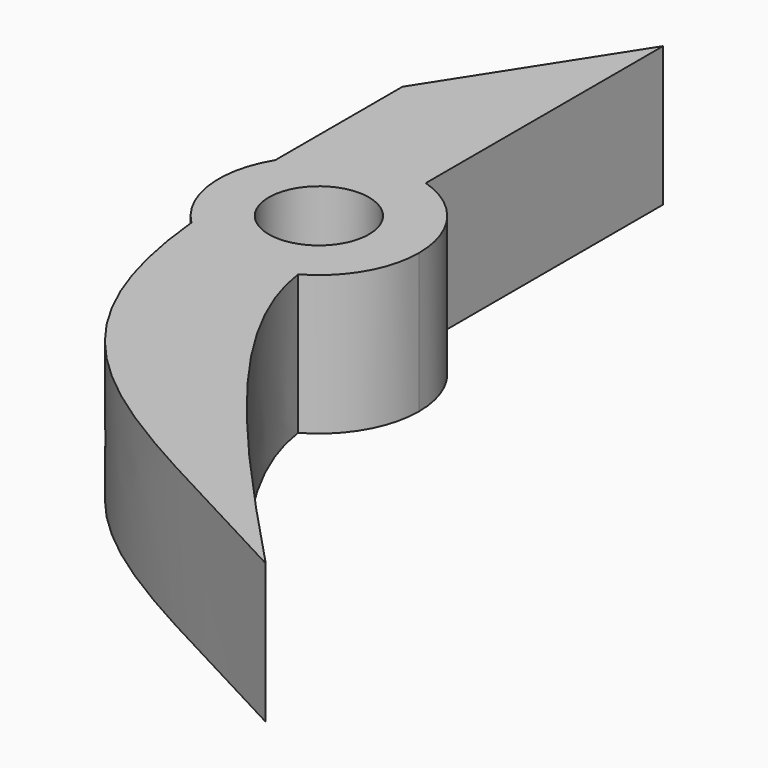
from build123d import *

# Parameters (mm, degrees)
F0_R     = 2
F1_DEPTH = 5.57


with BuildPart() as f1:
    # F0 (on Top) → F1 (new body)
    with BuildSketch(Plane.XY):
        with BuildLine():
            ThreePointArc((-11.400436, 18.726019), (-9.907034, 20.19309), (-9.359215, 22.213595))
            ThreePointArc((-9.359215, 22.213595), (-10.128315, 24.571832), (-12.139857, 26.02321))
            ThreePointArc((-12.139857, 26.02321), (-14.752933, 25.962935), (-16.770909, 24.301739))
            ThreePointArc((-16.770909, 24.301739), (-17.330326, 21.73372), (-16.175298, 19.372877))
            ThreePointArc((-16.175298, 19.372877), (-13.896196, 18.249802), (-11.400436, 18.726019))
        make_face()
        with Locations((-13.359215, 22.213595)):
            Circle(F0_R, mode=Mode.SUBTRACT)
        with BuildLine():
            ThreePointArc((-16.770909, 24.301739), (-14.752933, 25.962935), (-12.139857, 26.02321))
            Line((-12.139857, 26.02321), (-12.139857, 37.861944))
            Line((-12.139857, 37.861944), (-16.770909, 30.644984))
            Line((-16.770909, 30.644984), (-16.770909, 24.301739))
        make_face()
        with BuildLine():
            ThreePointArc((-11.400436, 18.726019), (-9.907034, 20.19309), (-9.359215, 22.213595))
            ThreePointArc((-9.359215, 22.213595), (-10.128315, 24.571832), (-12.139857, 26.02321))
            ThreePointArc((-12.139857, 26.02321), (-14.752933, 25.962935), (-16.770909, 24.301739))
            ThreePointArc((-16.770909, 24.301739), (-17.330326, 21.73372), (-16.175298, 19.372877))
            ThreePointArc((-16.175298, 19.372877), (-13.896196, 18.249802), (-11.400436, 18.726019))
        make_face()
        with Locations((-13.359215, 22.213595)):
            Circle(F0_R, mode=Mode.SUBTRACT)
        with BuildLine():
            add(Edge.make_bspline(
                [(-11.400436, 18.726019), (-10.838788, 14.530542), (-5.788488, 8.946827), (0, 2.861944)],
                knots=[0, 0, 0, 0, 19.535578, 19.535578, 19.535578, 19.535578], degree=3))
            ThreePointArc((-11.400436, 18.726019), (-13.896196, 18.249802), (-16.175298, 19.372877))
            add(Edge.make_bspline(
                [(-16.175298, 19.372877), (-15.218746, 9.630905), (-9.362263, 8.004596), (0, 2.861944)],
                knots=[0, 0, 0, 0, 23.113874, 23.113874, 23.113874, 23.113874], degree=3))
        make_face()
    extrude(amount=F1_DEPTH)


solid = f1.part
